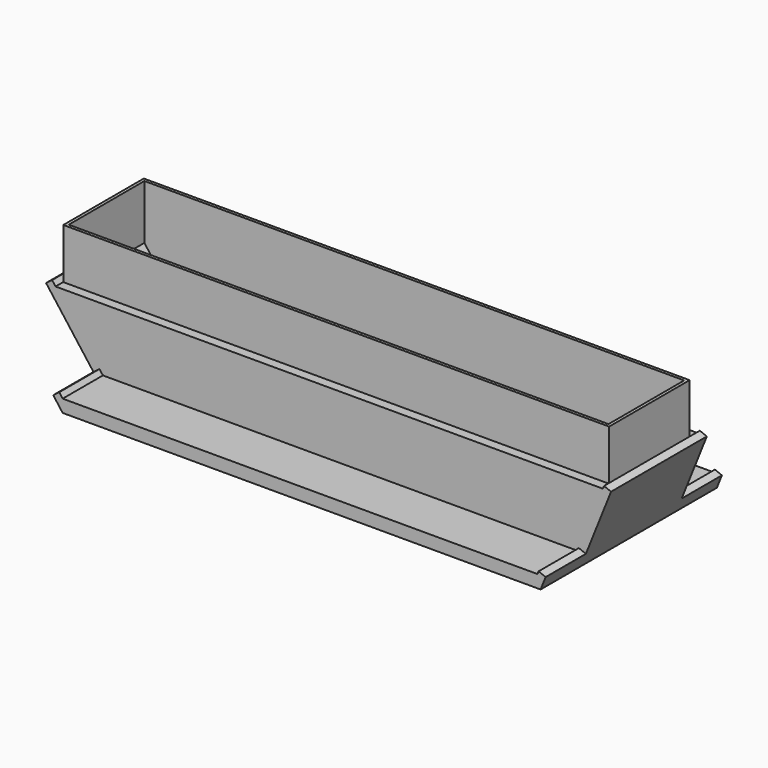
from build123d import *

# Parameters (mm, degrees)
SKETCH008_W     = 217
SKETCH008_H     = 40
SKETCH008_W_2   = 214.6
SKETCH008_H_2   = 37.6
PAD006_DEPTH    = 50
SKETCH009_W     = 224.6
SKETCH009_H     = 47.6
SKETCH009_W_2   = 214.6
SKETCH009_H_2   = 37.6
PAD007_DEPTH    = 30
SKETCH010_W     = 224.6
SKETCH010_H     = 20
PAD008_DEPTH    = 5
POCKET001_DEPTH = 87.601
PAD009_DEPTH    = 3
PAD010_DEPTH    = 3


with BuildPart() as part:
    # Sketch008 → Pad006 (new body)
    with BuildSketch(Plane.XY):
        Rectangle(SKETCH008_W, SKETCH008_H)
        Rectangle(SKETCH008_W_2, SKETCH008_H_2, mode=Mode.SUBTRACT)
    extrude(amount=PAD006_DEPTH)

    # Sketch009 → Pad007 (join)
    with BuildSketch(Plane.XY):
        Rectangle(SKETCH009_W, SKETCH009_H)
        Rectangle(SKETCH009_W_2, SKETCH009_H_2, mode=Mode.SUBTRACT)
    extrude(amount=PAD007_DEPTH)

    # Sketch010 → Pad008 (join)
    with BuildSketch(Plane.XY):
        with Locations((0, 33.8)):
            Rectangle(SKETCH010_W, SKETCH010_H)
        with Locations((0, -33.8)):
            Rectangle(SKETCH010_W, SKETCH010_H)
    extrude(amount=PAD008_DEPTH)

    # Sketch011 (on Face1 of Pad008) → Pocket001 (cut, through all)
    with BuildSketch(Plane(origin=(0, 43.8, 0), x_dir=(-1, 0, 0), z_dir=(0, 1, 0))):
        Polygon((-112.3, 30), (-100.3, 0), (-112.3, 0), align=None)
        Polygon((112.3, 30), (89.7, 0), (112.3, 0), align=None)
    extrude(amount=-POCKET001_DEPTH, mode=Mode.SUBTRACT)

    # Sketch012 (on Face5 of Pocket001) → Pad009 (join)
    with BuildSketch(Plane(origin=(-57.224475, 0, -43.109104), x_dir=(0, -1, 0), z_dir=(-0.79872, 0, -0.601703))):
        Polygon((-43.8, 60.232735), (-23.8, 60.232735), (-23.8, 91.532806), (23.8, 91.532806), (23.8, 60.232735), (43.8, 60.232735), (43.8, 53.972721), (-43.8, 53.972721), align=None)
    extrude(amount=-PAD009_DEPTH)

    # Sketch013 (on Face6 of Pad009) → Pad010 (join)
    with BuildSketch(Plane(origin=(86.465517, 0, -34.586207), x_dir=(0, 1, 0), z_dir=(0.928477, 0, -0.371391))):
        Polygon((-23.8, 69.561474), (23.8, 69.561474), (23.8, 42.63565), (43.8, 42.63565), (43.8, 37.250485), (-43.8, 37.250485), (-43.8, 42.63565), (-23.8, 42.63565), align=None)
    extrude(amount=-PAD010_DEPTH)


solid = part.part
